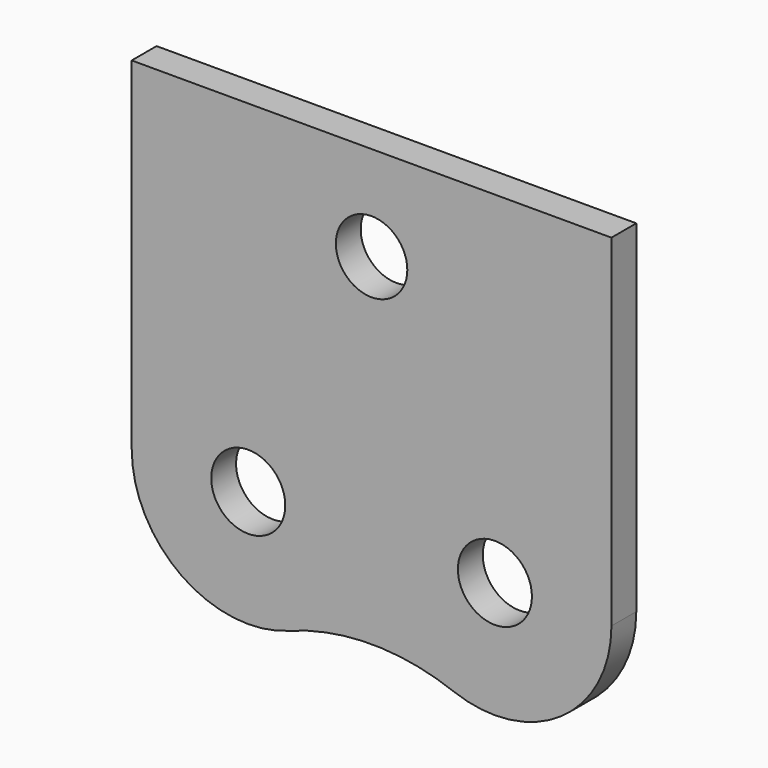
from build123d import *

# Parameters (mm, degrees)
F0_R     = 4.6
F1_DEPTH = 4


with BuildPart() as f1:
    # F0 (on Front) → F1 (new body)
    with BuildSketch(Plane.XZ):
        with BuildLine():
            Line((-46.75, 31.8), (-46.75, 0))
            ThreePointArc((-46.75, 0), (-40.283024, -12.33643), (-26.458333, -14.035607))
            ThreePointArc((-26.458333, -14.035607), (-15.875, -12.106821), (-5.291667, -14.035607))
            ThreePointArc((-5.291667, -14.035607), (8.533024, -12.33643), (15, 0))
            Line((15, 0), (15, 31.8))
            Line((15, 31.8), (15, 44))
            Line((15, 44), (-46.75, 44))
            Line((-46.75, 44), (-46.75, 31.8))
        make_face()
        with BuildLine():
            ThreePointArc((-36.515, 0), (-31.75, 4.765), (-26.985, 0))
            ThreePointArc((-26.985, 0), (-31.75, -4.765), (-36.515, 0))
        make_face(mode=Mode.SUBTRACT)
        with BuildLine():
            ThreePointArc((-4.765, 0), (0, 4.765), (4.765, 0))
            ThreePointArc((4.765, 0), (0, -4.765), (-4.765, 0))
        make_face(mode=Mode.SUBTRACT)
        with Locations((-15.875, 31.8)):
            Circle(F0_R, mode=Mode.SUBTRACT)
    extrude(amount=-F1_DEPTH)


solid = f1.part
